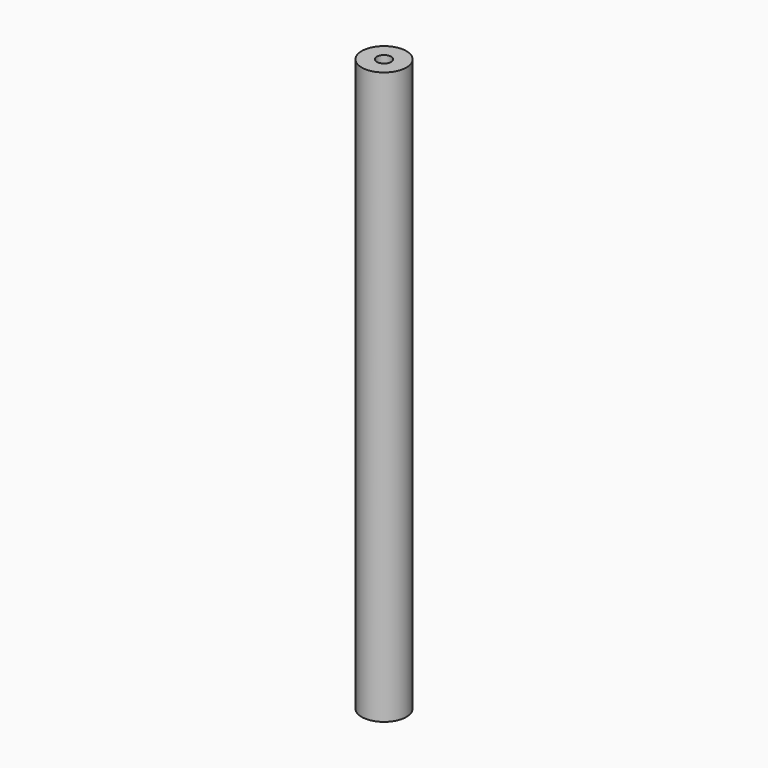
from build123d import *

# Parameters (mm, degrees)
F0_R     = 7.9375
F1_DEPTH = 101.6
F3_D     = 5.1054
F3_DEPTH = 16.51
F3_TIP   = 1.5338169022
F5_D     = 5.1054
F5_DEPTH = 16.51
F5_TIP   = 1.5338169022


with BuildPart() as f1:
    # F0 (on Top) → F1 (new body, symmetric)
    with BuildSketch(Plane.XY):
        Circle(F0_R)
    extrude(amount=F1_DEPTH, both=True)

    # F3
    with Locations(Plane.XY.offset(101.6)):
        with Locations((0, 0)):
            Hole(F3_D / 2, depth=F3_DEPTH)
            with Locations((0, 0, -(F3_DEPTH + F3_TIP / 2))):  # 118° drill point
                Cone(0, F3_D / 2, F3_TIP, mode=Mode.SUBTRACT)

    # F5
    with Locations(Plane(origin=(0, 0, -101.6), x_dir=(1, 0, 0), z_dir=(0, 0, -1))):
        with Locations((0, 0)):
            Hole(F5_D / 2, depth=F5_DEPTH)
            with Locations((0, 0, -(F5_DEPTH + F5_TIP / 2))):  # 118° drill point
                Cone(0, F5_D / 2, F5_TIP, mode=Mode.SUBTRACT)


solid = f1.part
